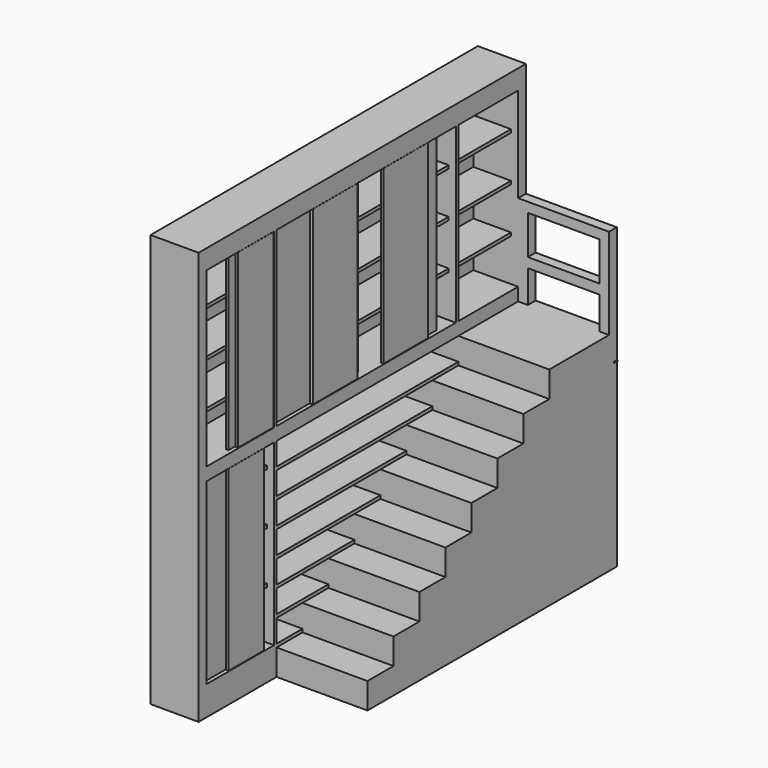
from build123d import *

# Parameters (mm, degrees)
F0_W      = 370
F0_H      = 3150
F1_DEPTH  = 3180
F3_DEPTH  = 700
F5_W      = 250
F5_H      = 175
F6_DEPTH  = 345
F7_W      = 650
F7_H      = 375
F7_H_2    = 175
F8_DEPTH  = 345
F10_W     = 650
F10_H     = 825
F11_DEPTH = 55
F9_W      = 575
F9_H      = 1330
F9_W_2    = 650
F9_W_3    = 1725
F12_DEPTH = 345
F13_W     = 1505
F13_H     = 25
F13_W_2   = 1470
F14_DEPTH = 290
F17_W     = 340
F17_H     = 1370
F17_H_2   = 1325
F17_W_2   = 430
F18_DEPTH = 20
F19_W     = 340
F19_H     = 1370
F19_H_2   = 1325
F19_W_2   = 430
F20_DEPTH = 20
F21_W     = 550
F21_H     = 300
F22_DEPTH = 75
F23_W     = 870
F23_H     = 1400
F24_DEPTH = 500
F25_W     = 435
F25_H     = 1390
F26_DEPTH = 25
F25_W_2   = 15.761821866
F25_H_2   = 10
F25_W_3   = 114.7337341309


with BuildPart() as f1:
    # F0 (on Top) → F1 (new body)
    with BuildSketch(Plane.XY):
        with Locations((185, 1575)):
            Rectangle(F0_W, F0_H)
    extrude(amount=F1_DEPTH)

    # F2 (on face) → F3 (join)
    with BuildSketch(Plane.YZ.offset(370)):
        Polygon((750, 0), (3150, 0), (3150, 1600), (2750, 1600), (2500, 1600), (2500, 1400), (2250, 1400), (2250, 1200), (2000, 1200), (2000, 1000), (1750, 1000), (1750, 800), (1500, 800), (1500, 600), (1250, 600), (1250, 400), (1000, 400), (1000, 200), (750, 200), align=None)
    extrude(amount=F3_DEPTH)

    # F5 (on face) → F6 (cut, through all)
    with BuildSketch(Plane.YZ.offset(370)):
        with Locations((875, 312.5)):
            Rectangle(F5_W, F5_H)
        with Locations((1125, 512.5)):
            Rectangle(F5_W, F5_H)
        with Locations((875, 512.5)):
            Rectangle(F5_W, F5_H)
        with Locations((1125, 712.5)):
            Rectangle(F5_W, F5_H)
        with Locations((875, 712.5)):
            Rectangle(F5_W, F5_H)
        with Locations((1375, 712.5)):
            Rectangle(F5_W, F5_H)
        with Locations((1125, 912.5)):
            Rectangle(F5_W, F5_H)
        with Locations((875, 912.5)):
            Rectangle(F5_W, F5_H)
        with Locations((1375, 912.5)):
            Rectangle(F5_W, F5_H)
        with Locations((1625, 912.5)):
            Rectangle(F5_W, F5_H)
        with Locations((1125, 1112.5)):
            Rectangle(F5_W, F5_H)
        with Locations((875, 1112.5)):
            Rectangle(F5_W, F5_H)
        with Locations((1375, 1112.5)):
            Rectangle(F5_W, F5_H)
        with Locations((1625, 1112.5)):
            Rectangle(F5_W, F5_H)
        with Locations((1875, 1112.5)):
            Rectangle(F5_W, F5_H)
        with Locations((1125, 1312.5)):
            Rectangle(F5_W, F5_H)
        with Locations((875, 1312.5)):
            Rectangle(F5_W, F5_H)
        with Locations((1375, 1312.5)):
            Rectangle(F5_W, F5_H)
        with Locations((1625, 1312.5)):
            Rectangle(F5_W, F5_H)
        with Locations((1875, 1312.5)):
            Rectangle(F5_W, F5_H)
        with Locations((2125, 1312.5)):
            Rectangle(F5_W, F5_H)
        with Locations((1125, 1512.5)):
            Rectangle(F5_W, F5_H)
        with Locations((875, 1512.5)):
            Rectangle(F5_W, F5_H)
        with Locations((1375, 1512.5)):
            Rectangle(F5_W, F5_H)
        with Locations((1625, 1512.5)):
            Rectangle(F5_W, F5_H)
        with Locations((1875, 1512.5)):
            Rectangle(F5_W, F5_H)
        with Locations((2125, 1512.5)):
            Rectangle(F5_W, F5_H)
        with Locations((2375, 1512.5)):
            Rectangle(F5_W, F5_H)
    extrude(amount=-F6_DEPTH, mode=Mode.SUBTRACT)

    # F7 (on face) → F8 (cut, through all)
    with BuildSketch(Plane.YZ.offset(370)):
        with Locations((400, 412.5)):
            Rectangle(F7_W, F7_H)
        with Locations((400, 812.5)):
            Rectangle(F7_W, F7_H)
        with Locations((400, 1212.5)):
            Rectangle(F7_W, F7_H)
        with Locations((400, 1512.5)):
            Rectangle(F7_W, F7_H_2)
    extrude(amount=-F8_DEPTH, mode=Mode.SUBTRACT)

    # F10 (on face) → F11 (cut)
    with BuildSketch(Plane.YZ.offset(370)):
        with Locations((400, 1012.5)):
            Rectangle(F10_W, F10_H)
    extrude(amount=-F11_DEPTH, mode=Mode.SUBTRACT)

    # F9 (on face) → F12 (cut, through all)
    with BuildSketch(Plane.YZ.offset(370)):
        with Locations((2787.5, 2365)):
            Rectangle(F9_W, F9_H)
        with Locations((400, 2365)):
            Rectangle(F9_W_2, F9_H)
        with Locations((1612.5, 2365)):
            Rectangle(F9_W_3, F9_H)
    extrude(amount=-F12_DEPTH, mode=Mode.SUBTRACT)

    # F13 (on face) → F14 (join, through all)
    with BuildSketch(Plane.YZ.offset(315)):
        with Locations((827.5, 2037.5)):
            Rectangle(F13_W, F13_H)
        Polygon((1580, 2050), (1580, 2025), (1580, 1700), (1605, 1700), (1605, 2025), (1605, 2050), (1605, 2375), (1605, 2400), (1605, 2725), (1605, 2750), (1605, 3030), (1580, 3030), (1580, 2750), (1580, 2725), (1580, 2400), (1580, 2375), align=None)
        with Locations((827.5, 2387.5)):
            Rectangle(F13_W, F13_H)
        with Locations((2340, 2037.5)):
            Rectangle(F13_W_2, F13_H)
        with Locations((827.5, 2737.5)):
            Rectangle(F13_W, F13_H)
        with Locations((2340, 2387.5)):
            Rectangle(F13_W_2, F13_H)
        with Locations((2340, 2737.5)):
            Rectangle(F13_W_2, F13_H)
    extrude(amount=-F14_DEPTH)

    # F17 (on offset) → F18 (join)
    with BuildSketch(Plane.YZ.offset(320)):
        with Locations((245, 910)):
            Rectangle(F17_W, F17_H)
        with Locations((495, 2362.5)):
            Rectangle(F17_W, F17_H_2)
        with Locations((965, 2362.5)):
            Rectangle(F17_W_2, F17_H_2)
        with Locations((2110, 2362.5)):
            Rectangle(F17_W_2, F17_H_2)
    extrude(amount=F18_DEPTH)

    # F19 (on offset) → F20 (join)
    with BuildSketch(Plane.YZ.offset(345)):
        with Locations((465, 910)):
            Rectangle(F19_W, F19_H)
        with Locations((555, 2362.5)):
            Rectangle(F19_W, F19_H_2)
        with Locations((1320, 2362.5)):
            Rectangle(F19_W_2, F19_H_2)
        with Locations((2000, 2362.5)):
            Rectangle(F19_W_2, F19_H_2)
    extrude(amount=F20_DEPTH)

    # F21 (on face) → F22 (join, through all)
    with BuildSketch(Plane(origin=(0, 3150, 0), x_dir=(-1, 0, 0), z_dir=(0, 1, 0))):
        Polygon((-1070, 2300), (-1070, 1600), (-995, 1600), (-995, 1850), (-445, 1850), (-445, 1600), (-370, 1600), (-370, 2300), align=None)
        with Locations((-720, 2075)):
            Rectangle(F21_W, F21_H, mode=Mode.SUBTRACT)
    extrude(amount=-F22_DEPTH)

    # F23 (on face) → F24 (cut)
    with BuildSketch(Plane(origin=(0, 3150, 0), x_dir=(-1, 0, 0), z_dir=(0, 1, 0))):
        with Locations((-535, 700)):
            Rectangle(F23_W, F23_H)
    extrude(amount=-F24_DEPTH, mode=Mode.SUBTRACT)



with BuildPart() as f26:
    # F25 (on face) → F26 (new body)
    with BuildSketch(Plane(origin=(0, 3150, 0), x_dir=(-1, 0, 0), z_dir=(0, 1, 0))):
        with Locations((-742.5, 695)):
            Rectangle(F25_W, F25_H)
    extrude(amount=-F26_DEPTH)


with BuildPart() as f1_1:
    add(f1.part)

    add(f26.part)  # F26#2 merges F26
    # F25 (on face) → F26, piece 2 (join)
    with BuildSketch(Plane(origin=(0, 3150, 0), x_dir=(-1, 0, 0), z_dir=(0, 1, 0))):
        Polygon((-520, 1390), (-520, 0), (-110, 0), (-110, 1390), (-125.761821866, 1390), align=None)
        with Locations((-117.880910933, 1395)):
            Rectangle(F25_W_2, F25_H_2)
        with Locations((-1017.3668670654, 1395)):
            Rectangle(F25_W_3, F25_H_2)
    extrude(amount=-F26_DEPTH)


solid = f1_1.part
